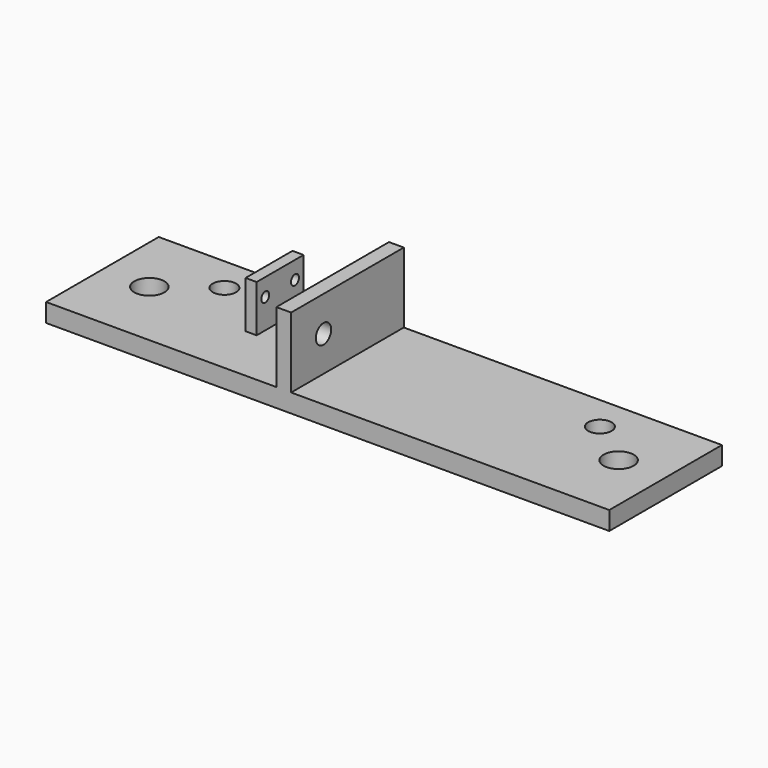
from build123d import *

# Parameters (mm, degrees)
F0_W     = 76.2
F0_H     = 38.1
F0_R     = 4.06875
F0_R_2   = 3.175
F1_DEPTH = 5
F2_W     = 4
F2_H     = 19.05
F3_DEPTH = 19.05
F4_W     = 3
F4_H     = 15.875
F5_DEPTH = 12.7
F7_DEPTH = 4
F8_R     = 1.349997
F9_DEPTH = 3


with BuildPart() as f1:
    # F0 (on Top) → F1 (new body)
    with BuildSketch(Plane.XY):
        with Locations((38.1, 0)):
            Rectangle(F0_W, F0_H)
        with Locations((63.5, 0)):
            Circle(F0_R, mode=Mode.SUBTRACT)
        with Locations((50.8, 9.525)):
            Circle(F0_R_2, mode=Mode.SUBTRACT)
        with Locations((-38.1, 0)):
            Rectangle(F0_W, F0_H)
        with Locations((-63.5, 0)):
            Circle(F0_R, mode=Mode.SUBTRACT)
        with Locations((-50.8, 9.525)):
            Circle(F0_R_2, mode=Mode.SUBTRACT)
    extrude(amount=F1_DEPTH)

    # F2 (on face) → F3 (join)
    with BuildSketch(Plane.XY.offset(5)):
        with Locations((-11.89, 9.525)):
            Rectangle(F2_W, F2_H)
        with Locations((-11.89, -9.525)):
            Rectangle(F2_W, F2_H)
    extrude(amount=F3_DEPTH)

    # F4 (on face) → F5 (join)
    with BuildSketch(Plane.XY.offset(5)):
        with Locations((-33.425, 4.7625)):
            Rectangle(F4_W, F4_H)
    extrude(amount=F5_DEPTH)

    # F6 (on face) → F7 (cut, through all)
    with BuildSketch(Plane.YZ.offset(-9.89)):
        with BuildLine():
            Line((-8.099996, 14.525), (-5.499996, 14.525))
            ThreePointArc((-5.499996, 14.525), (-8.099996, 17.125), (-10.699996, 14.525))
            Line((-10.699996, 14.525), (-8.099996, 14.525))
        make_face()
        with BuildLine():
            ThreePointArc((-10.699996, 14.525), (-8.099996, 11.925), (-5.499996, 14.525))
            Line((-5.499996, 14.525), (-8.099996, 14.525))
            Line((-8.099996, 14.525), (-10.699996, 14.525))
        make_face()
    extrude(amount=-F7_DEPTH, mode=Mode.SUBTRACT)

    # F8 (on face) → F9 (cut, through all)
    with BuildSketch(Plane(origin=(-34.925, 0, 0), x_dir=(0, -1, 0), z_dir=(-1, 0, 0))):
        with Locations((-9.787496, 12.949984)):
            Circle(F8_R)
        with Locations((0.262496, 12.949984)):
            Circle(F8_R)
    extrude(amount=-F9_DEPTH, mode=Mode.SUBTRACT)


solid = f1.part
